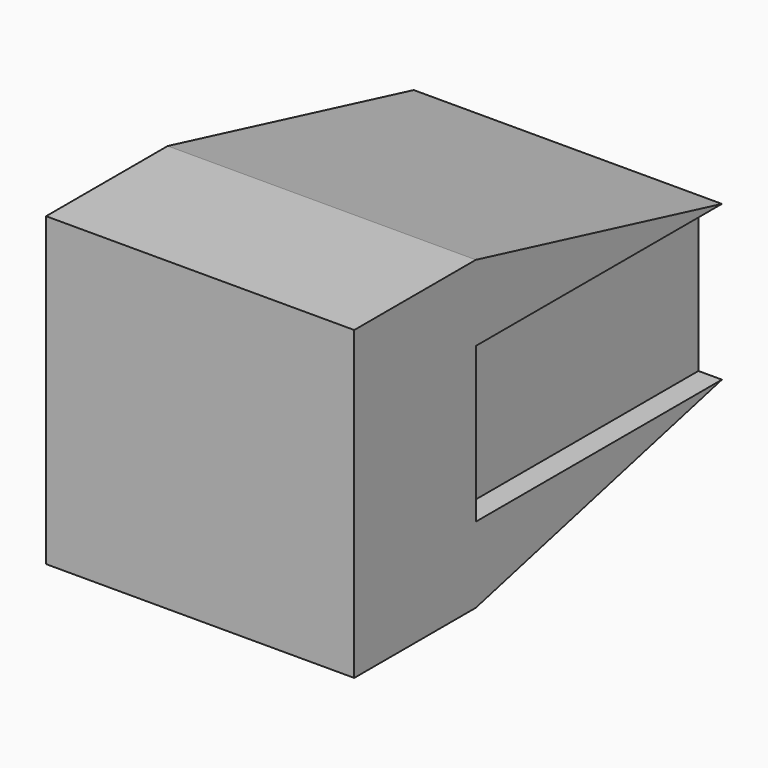
from build123d import *

# Parameters (mm, degrees)
F0_W     = 80.14
F0_H     = 79.66
F1_DEPTH = 39.53
F2_W     = 67.9
F2_H     = 40.24
F3_DEPTH = 80
F5_DEPTH = 80.14


with BuildPart() as f1:
    # F0 (on Front) → F1 (new body)
    with BuildSketch(Plane.XZ):
        Rectangle(F0_W, F0_H)
    extrude(amount=F1_DEPTH)

    # F2 (on face) → F3 (join)
    with BuildSketch(Plane(origin=(0, 0, 0), x_dir=(-1, 0, 0), z_dir=(0, 1, 0))):
        Rectangle(F2_W, F2_H)
    extrude(amount=F3_DEPTH)

    # F4 (on face) → F5 (join, through all)
    with BuildSketch(Plane.YZ.offset(40.07)):
        Polygon((80, 20.12), (0, 39.83), (0, 20.12), align=None)
        Polygon((80, -20.12), (0, -20.12), (0, -39.83), align=None)
        Polygon((0, 20.12), (0, 39.83), (-39.53, 39.83), (-39.53, -39.83), (0, -39.83), (0, -20.12), align=None)
    extrude(amount=-F5_DEPTH)


solid = f1.part
